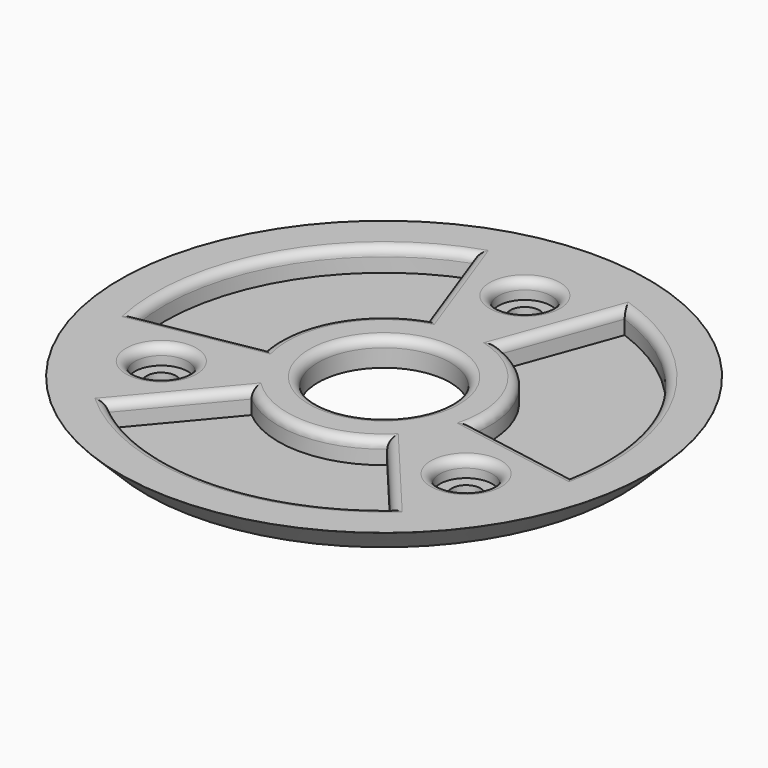
from build123d import *

# Parameters (mm, degrees)
SKETCH_R              = 30
SKETCH_R_2            = 7.5
PAD_DEPTH             = 3
SKETCH001_R           = 3
POCKET_DEPTH          = 2
POLARPATTERN_COUNT    = 3
SKETCH002_R           = 1.65
POCKET001_DEPTH       = 5
POLARPATTERN001_COUNT = 3
CHAMFER_SIZE          = 2.99
POCKET002_DEPTH       = 2.6
POLARPATTERN002_COUNT = 3
FILLET_R              = 1


with BuildPart() as part:
    # Sketch → Pad (new body)
    with BuildSketch(Plane.XY):
        Circle(SKETCH_R)
        Circle(SKETCH_R_2, mode=Mode.SUBTRACT)
    extrude(amount=PAD_DEPTH)

    # Sketch001 (on Face4 of Pad) → Pocket (cut)
    with BuildSketch(Plane.XY.offset(3)):
        with Locations((0, 20)):
            Circle(SKETCH001_R)
    pocket = extrude(amount=-POCKET_DEPTH, mode=Mode.SUBTRACT)

    # PolarPattern: Pocket ×3 about axis
    polarpattern_axis = Axis((0, 0, 3), (0, 0, 1))
    for i in range(1, POLARPATTERN_COUNT):
        add(pocket.rotate(polarpattern_axis, i * 360 / POLARPATTERN_COUNT), mode=Mode.SUBTRACT)

    # Sketch002 (on Face3 of PolarPattern) → Pocket001 (cut)
    with BuildSketch(Plane.XY.offset(3)):
        with Locations((0, 20)):
            Circle(SKETCH002_R)
    pocket001 = extrude(amount=-POCKET001_DEPTH, mode=Mode.SUBTRACT)

    # PolarPattern001: Pocket001 ×3 about axis
    polarpattern001_axis = Axis((0, 0, 3), (0, 0, 1))
    for i in range(1, POLARPATTERN001_COUNT):
        add(pocket001.rotate(polarpattern001_axis, i * 360 / POLARPATTERN001_COUNT), mode=Mode.SUBTRACT)

    # Chamfer
    chamfer_edges = [part.edges().sort_by_distance(p)[0] for p in [
        (-30, 0, 0),
    ]]
    chamfer(chamfer_edges, length=CHAMFER_SIZE)

    # Sketch003 → Pocket002 (cut)
    with BuildSketch(Plane.XY.offset(3)):
        with BuildLine():
            ThreePointArc((-8.550504, 23.492316), (-21.650635, 12.5), (-24.620194, -4.341204))
            Line((-24.620194, -4.341204), (-11.817693, -2.083778))
            ThreePointArc((-4.104242, 11.276311), (-10.392305, 6), (-11.817693, -2.083778))
            Line((-8.550504, 23.492316), (-4.104242, 11.276311))
        make_face()
    pocket002 = extrude(amount=-POCKET002_DEPTH, mode=Mode.SUBTRACT)

    # PolarPattern002: Pocket002 ×3 about axis
    polarpattern002_axis = Axis((0, 0, 3), (0, 0, 1))
    for i in range(1, POLARPATTERN002_COUNT):
        add(pocket002.rotate(polarpattern002_axis, i * 360 / POLARPATTERN002_COUNT), mode=Mode.SUBTRACT)

    # Fillet
    fillet_edges = [part.edges().sort_by_distance(p)[0] for p in [
        (-11.891571, -14.171822, 3),
        (0, -12, 3),
        (0, -25, 3),
        (11.891571, -14.171822, 3),
        (18.820508, -7.401924, 3),
        (18.218943, -3.212491, 3),
        (10.392305, 6, 3),
        (6.327373, 17.384313, 3),
        (21.650635, 12.5, 3),
        (-3, 20, 3),
        (-6.327373, 17.384313, 3),
        (-10.392305, 6, 3),
        (-18.218943, -3.212491, 3),
        (-21.650635, 12.5, 3),
        (-15.820508, -12.598076, 3),
        (-7.5, 0, 3),
    ]]
    fillet(fillet_edges, radius=FILLET_R)


solid = part.part
